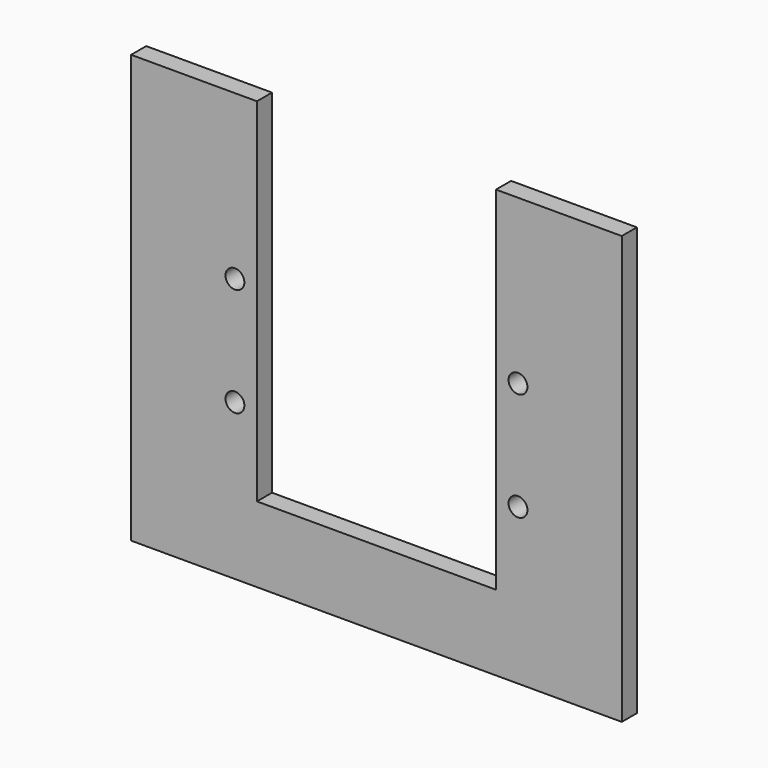
from build123d import *

# Parameters (mm, degrees)
F0_R     = 1.5
F1_DEPTH = 3


with BuildPart() as f1:
    # F0 (on Front) → F1 (new body)
    with BuildSketch(Plane.XZ):
        Polygon((-39, -34), (39, -34), (39, 34), (19, 34), (19, 19.584961), (19, -19.584961), (19, -22), (-19, -22), (-19, -19.584961), (-19, 19.584961), (-19, 34), (-39, 34), align=None)
        with Locations((-22.5, -9.25)):
            Circle(F0_R, mode=Mode.SUBTRACT)
        with Locations((22.5, -9.25)):
            Circle(F0_R, mode=Mode.SUBTRACT)
        with Locations((-22.5, 8)):
            Circle(F0_R, mode=Mode.SUBTRACT)
        with Locations((22.5, 8)):
            Circle(F0_R, mode=Mode.SUBTRACT)
    extrude(amount=F1_DEPTH)


solid = f1.part
